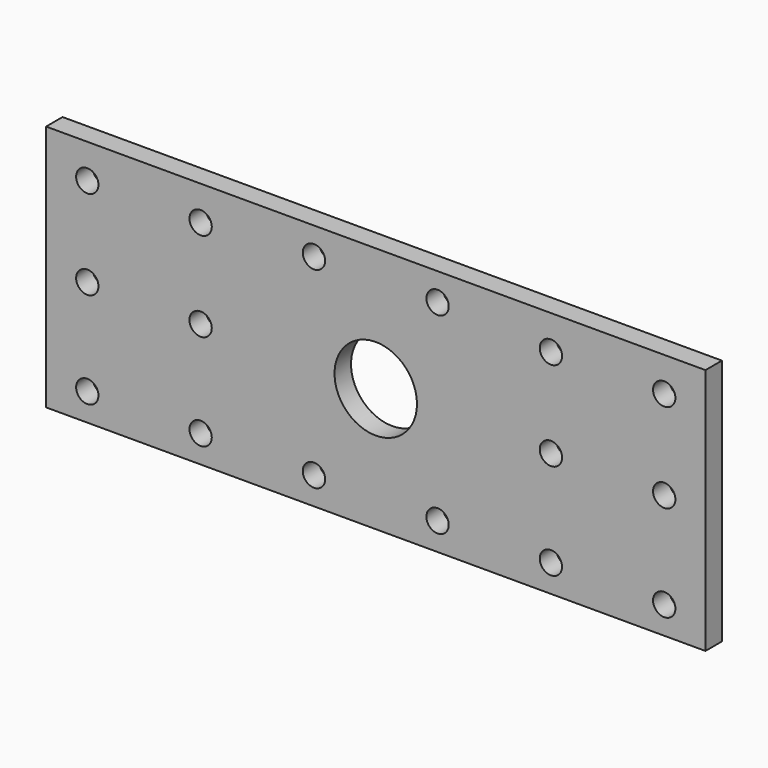
from build123d import *

# Parameters (mm, degrees)
F0_R     = 10.31875
F0_R_2   = 38.1
F1_DEPTH = 19.05


with BuildPart() as f1:
    # F0 (on Front) → F1 (new body)
    with BuildSketch(Plane.XZ):
        with BuildLine():
            ThreePointArc((31.590851, 85.725), (0, -19.05), (-31.590851, 85.725))
            Line((-31.590851, 85.725), (-304.8, 85.725))
            Line((-304.8, 85.725), (-304.8, -76.2))
            Line((-304.8, -76.2), (295.275, -76.2))
            Line((295.275, -76.2), (295.275, 76.2))
            ThreePointArc((295.275, 76.2), (292.485192, 82.935192), (285.75, 85.725))
            Line((285.75, 85.725), (31.590851, 85.725))
        make_face()
        with Locations((-266.7, -50.8)):
            Circle(F0_R, mode=Mode.SUBTRACT)
        with Locations((-161.925, -50.8)):
            Circle(F0_R, mode=Mode.SUBTRACT)
        with Locations((-57.15, -50.8)):
            Circle(F0_R, mode=Mode.SUBTRACT)
        with Locations((57.15, -50.8)):
            Circle(F0_R, mode=Mode.SUBTRACT)
        with Locations((161.925, -50.8)):
            Circle(F0_R, mode=Mode.SUBTRACT)
        with Locations((-266.7, 38.1)):
            Circle(F0_R, mode=Mode.SUBTRACT)
        with Locations((-161.925, 38.1)):
            Circle(F0_R, mode=Mode.SUBTRACT)
        with Locations((161.925, 38.1)):
            Circle(F0_R, mode=Mode.SUBTRACT)
        with Locations((266.7, -50.8)):
            Circle(F0_R, mode=Mode.SUBTRACT)
        with Locations((266.7, 38.1)):
            Circle(F0_R, mode=Mode.SUBTRACT)
        with BuildLine():
            Line((0, 85.725), (-31.590851, 85.725))
            ThreePointArc((-31.590851, 85.725), (0, -19.05), (31.590851, 85.725))
            Line((31.590851, 85.725), (0, 85.725))
        make_face()
        with Locations((0, 38.1)):
            Circle(F0_R_2, mode=Mode.SUBTRACT)
        Polygon((-304.8, 152.4), (-304.8, 95.25), (0, 95.25), (304.8, 95.25), (304.8, 152.4), align=None)
        with Locations((-266.7, 120.65)):
            Circle(F0_R, mode=Mode.SUBTRACT)
        with Locations((-161.925, 120.65)):
            Circle(F0_R, mode=Mode.SUBTRACT)
        with Locations((-57.15, 127)):
            Circle(F0_R, mode=Mode.SUBTRACT)
        with Locations((57.15, 127)):
            Circle(F0_R, mode=Mode.SUBTRACT)
        with Locations((161.925, 120.65)):
            Circle(F0_R, mode=Mode.SUBTRACT)
        with Locations((266.7, 120.65)):
            Circle(F0_R, mode=Mode.SUBTRACT)
        Polygon((-304.8, 152.4), (-304.8, 95.25), (0, 95.25), (304.8, 95.25), (304.8, 152.4), align=None)
        with Locations((-266.7, 120.65)):
            Circle(F0_R, mode=Mode.SUBTRACT)
        with Locations((-161.925, 120.65)):
            Circle(F0_R, mode=Mode.SUBTRACT)
        with Locations((-57.15, 127)):
            Circle(F0_R, mode=Mode.SUBTRACT)
        with Locations((57.15, 127)):
            Circle(F0_R, mode=Mode.SUBTRACT)
        with Locations((161.925, 120.65)):
            Circle(F0_R, mode=Mode.SUBTRACT)
        with Locations((266.7, 120.65)):
            Circle(F0_R, mode=Mode.SUBTRACT)
        Polygon((-304.8, 85.725), (-31.590851, 85.725), (0, 85.725), (31.590851, 85.725), (285.75, 85.725), (304.8, 85.725), (304.8, 95.25), (0, 95.25), (-304.8, 95.25), align=None)
        with BuildLine():
            Line((304.8, 85.725), (285.75, 85.725))
            ThreePointArc((285.75, 85.725), (292.485192, 82.935192), (295.275, 76.2))
            Line((295.275, 76.2), (295.275, -76.2))
            Line((295.275, -76.2), (304.8, -76.2))
            Line((304.8, -76.2), (304.8, 47.625))
            Line((304.8, 47.625), (304.8, 85.725))
        make_face()
    extrude(amount=-F1_DEPTH)


solid = f1.part
